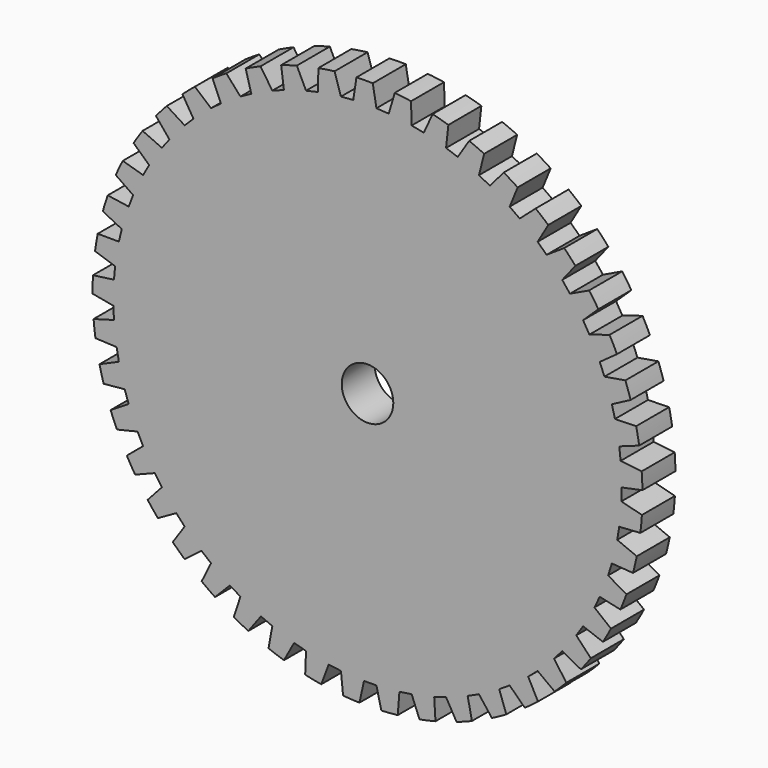
from build123d import *

# Parameters (mm, degrees)
F0_R     = 4.7625
F1_DEPTH = 7.62


with BuildPart() as f1:
    # F0 (on Front) → F1 (new body)
    with BuildSketch(Plane.XZ):
        with BuildLine():
            Line((46.963255, -0.001731), (50.793792, 0.794136))
            ThreePointArc((50.793792, 0.794136), (50.747573, 2.307341), (50.656284, 3.818497))
            Line((50.656284, 3.818497), (46.769329, 4.263473))
            Line((46.769329, 4.263473), (46.506453, 6.534308))
            Line((46.506453, 6.534308), (50.188948, 7.855538))
            ThreePointArc((50.188948, 7.855538), (49.932581, 9.347584), (49.631868, 10.831328))
            Line((49.631868, 10.831328), (45.720812, 10.731014))
            Line((45.720812, 10.731014), (45.144455, 12.943164))
            Line((45.144455, 12.943164), (48.607233, 14.76404))
            ThreePointArc((48.607233, 14.76404), (48.145709, 16.205886), (47.641425, 17.633339))
            Line((47.641425, 17.633339), (43.782392, 16.989687))
            Line((43.782392, 16.989687), (42.903772, 19.100096))
            Line((42.903772, 19.100096), (46.079434, 21.385176))
            ThreePointArc((46.079434, 21.385176), (45.421735, 22.748759), (44.723695, 24.092138))
            Line((44.723695, 24.092138), (40.991797, 22.917676))
            Line((40.991797, 22.917676), (39.828016, 24.885266))
            Line((39.828016, 24.885266), (42.654751, 27.590075))
            ThreePointArc((42.654751, 27.590075), (41.813678, 28.848853), (40.93547, 30.08201))
            Line((40.93547, 30.08201), (37.403344, 28.399598))
            Line((37.403344, 28.399598), (35.977053, 30.186073))
            Line((35.977053, 30.186073), (38.399841, 33.257964))
            ThreePointArc((38.399841, 33.257964), (37.391766, 34.387437), (36.350482, 35.48637))
            Line((36.350482, 35.48637), (33.086877, 33.328755))
            Line((33.086877, 33.328755), (31.425837, 34.899342))
            Line((31.425837, 34.899342), (33.397523, 38.278525))
            ThreePointArc((33.397523, 38.278525), (32.242065, 39.256709), (31.057973, 40.200029))
            Line((31.057973, 40.200029), (28.126412, 37.609205))
            Line((28.126412, 37.609205), (26.262954, 38.933335))
            Line((26.262954, 38.933335), (27.745159, 42.554038))
            ThreePointArc((27.745159, 42.554038), (26.46481, 43.361894), (25.160957, 44.131239))
            Line((25.160957, 44.131239), (22.618498, 41.157635))
            Line((22.618498, 41.157635), (20.588891, 42.209535))
            Line((20.588891, 42.209535), (21.552768, 46.001285))
            ThreePointArc((21.552768, 46.001285), (20.172447, 46.623088), (18.774211, 47.203485))
            Line((18.774211, 47.203485), (16.67034, 43.904978))
            Line((16.67034, 43.904978), (14.51409, 44.664175))
            Line((14.51409, 44.664175), (14.940876, 48.553169))
            ThreePointArc((14.940876, 48.553169), (13.48745, 48.976818), (12.022046, 49.356969))
            Line((12.022046, 49.356969), (10.397714, 45.797761))
            Line((10.397714, 45.797761), (8.156788, 46.249477))
            Line((8.156788, 46.249477), (8.038178, 50.160021))
            ThreePointArc((8.038178, 50.160021), (6.539936, 50.377269), (5.035886, 50.549776))
            Line((5.035886, 50.549776), (3.922708, 46.799142))
            Line((3.922708, 46.799142), (1.640724, 46.934586))
            Line((1.640724, 46.934586), (0.979025, 50.790565))
            ThreePointArc((0.979025, 50.790565), (-0.534871, 50.797184), (-2.048292, 50.758689))
            Line((-2.048292, 50.758689), (-2.62865, 46.889631))
            Line((-2.62865, 46.889631), (-4.907276, 46.706166))
            Line((-4.907276, 46.706166), (-6.099183, 50.432529))
            ThreePointArc((-6.099183, 50.432529), (-7.599267, 50.22839), (-9.092603, 49.979642))
            Line((-9.092603, 49.979642), (-9.128843, 46.067467))
            Line((-9.128843, 46.067467), (-11.35976, 45.568664))
            Line((-11.35976, 45.568664), (-13.058678, 49.092881))
            ThreePointArc((-13.058678, 49.092881), (-14.515753, 48.681957), (-15.959936, 48.227797))
            Line((-15.959936, 48.227797), (-15.451354, 44.348652))
            Line((-15.451354, 44.348652), (-17.59114, 43.54422))
            Line((-17.59114, 43.54422), (-19.764, 46.797696))
            ThreePointArc((-19.764, 46.797696), (-21.149705, 46.187985), (-22.516627, 45.537254))
            Line((-22.516627, 45.537254), (-21.473122, 41.766642))
            Line((-21.473122, 41.766642), (-23.480129, 40.672237))
            Line((-23.480129, 40.672237), (-26.084638, 43.591646))
            ThreePointArc((-26.084638, 43.591646), (-27.372003, 42.795017), (-28.635058, 41.96038))
            Line((-28.635058, 41.96038), (-27.07694, 38.37169))
            Line((-27.07694, 38.37169), (-28.912103, 37.008615))
            Line((-28.912103, 37.008615), (-31.897569, 39.537135))
            ThreePointArc((-31.897569, 39.537135), (-33.061536, 38.569092), (-34.196139, 37.566795))
            Line((-34.196139, 37.566795), (-32.153737, 34.229878))
            Line((-32.153737, 34.229878), (-33.781336, 32.624663))
            Line((-33.781336, 32.624663), (-37.08965, 34.713079))
            ThreePointArc((-37.08965, 34.713079), (-38.107563, 33.592464), (-39.091632, 32.442014))
            Line((-39.091632, 32.442014), (-36.604697, 29.42182))
            Line((-36.604697, 29.42182), (-37.993054, 27.605709))
            Line((-37.993054, 27.605709), (-41.559823, 29.213372))
            ThreePointArc((-41.559823, 29.213372), (-42.41187, 27.961997), (-43.226251, 26.685787))
            Line((-43.226251, 26.685787), (-40.343188, 24.0411))
            Line((-40.343188, 24.0411), (-41.46528, 22.049441))
            Line((-41.46528, 22.049441), (-45.221081, 23.14506))
            ThreePointArc((-45.221081, 23.14506), (-45.890679, 21.787281), (-46.51952, 20.410152))
            Line((-46.51952, 20.410152), (-43.296446, 18.192447))
            Line((-43.296446, 18.192447), (-44.130432, 16.064005))
            Line((-44.130432, 16.064005), (-48.002163, 16.626256))
            ThreePointArc((-48.002163, 16.626256), (-48.476277, 15.1885), (-48.907339, 13.737256))
            Line((-48.907339, 13.737256), (-45.406987, 11.989699))
            Line((-45.406987, 11.989699), (-45.936635, 9.765903))
            Line((-45.936635, 9.765903), (-49.848936, 9.783841))
            ThreePointArc((-49.848936, 9.783841), (-50.11834, 8.294093), (-50.343233, 6.79698))
            Line((-50.343233, 6.79698), (-46.633733, 5.553584))
            Line((-46.633733, 5.553584), (-46.848734, 3.277718))
            Line((-46.848734, 3.277718), (-50.725457, 2.750994))
            ThreePointArc((-50.725457, 2.750994), (-50.784907, 1.238251), (-50.799252, -0.275592))
            Line((-50.799252, -0.275592), (-46.952806, -0.990624))
            Line((-46.952806, -0.990624), (-46.848976, -3.274265))
            Line((-46.848976, -3.274265), (-50.614665, -4.335398))
            ThreePointArc((-50.614665, -4.335398), (-50.463003, -5.841693), (-50.266523, -7.342799))
            Line((-50.266523, -7.342799), (-46.357996, -7.515551))
            Line((-46.357996, -7.515551), (-45.937355, -9.762517))
            Line((-45.937355, -9.762517), (-49.518716, -11.337406))
            ThreePointArc((-49.518716, -11.337406), (-49.158894, -12.807934), (-48.755412, -14.267088))
            Line((-48.755412, -14.267088), (-44.860881, -13.894196))
            Line((-44.860881, -13.894196), (-44.131616, -16.060753))
            Line((-44.131616, -16.060753), (-47.458941, -18.118744))
            ThreePointArc((-47.458941, -18.118744), (-46.897963, -19.524884), (-46.295333, -20.913683))
            Line((-46.295333, -20.913683), (-42.4906, -20.002407))
            Line((-42.4906, -20.002407), (-41.466905, -22.046385))
            Line((-41.466905, -22.046385), (-44.475432, -24.547422))
            ThreePointArc((-44.475432, -24.547422), (-43.724216, -25.861804), (-42.934168, -27.153218))
            Line((-42.934168, -27.153218), (-39.293287, -25.721293))
            Line((-39.293287, -25.721293), (-37.995089, -27.602909))
            Line((-37.995089, -27.602909), (-40.62626, -30.498312))
            ThreePointArc((-40.62626, -30.498312), (-39.699428, -31.695354), (-38.737338, -32.864246))
            Line((-38.737338, -32.864246), (-35.331175, -30.939544))
            Line((-35.331175, -30.939544), (-33.783741, -32.622173))
            Line((-33.783741, -32.622173), (-35.986343, -35.855587))
            ThreePointArc((-35.986343, -35.855587), (-34.901935, -36.911989), (-33.78653, -37.935609))
            Line((-33.78653, -37.935609), (-30.681383, -35.555592))
            Line((-30.681383, -35.555592), (-28.914831, -37.006484))
            Line((-28.914831, -37.006484), (-30.645993, -40.514974))
            ThreePointArc((-30.645993, -40.514974), (-29.425116, -41.410175), (-28.178105, -42.268598))
            Line((-28.178105, -42.268598), (-25.434412, -39.47959))
            Line((-25.434412, -39.47959), (-23.483126, -40.670507))
            Line((-23.483126, -40.670507), (-24.709154, -44.385783))
            ThreePointArc((-24.709154, -44.385783), (-23.37557, -45.102358), (-22.021226, -45.778877))
            Line((-22.021226, -45.778877), (-19.692389, -42.635163))
            Line((-19.692389, -42.635163), (-17.59435, -43.542924))
            Line((-17.59435, -43.542924), (-18.291379, -47.392673))
            ThreePointArc((-18.291379, -47.392673), (-16.871046, -47.916676), (-15.435729, -48.398123))
            Line((-15.435729, -48.398123), (-13.567076, -44.960892))
            Line((-13.567076, -44.960892), (-11.363119, -45.567827))
            Line((-11.363119, -45.567827), (-11.517583, -49.477119))
            ThreePointArc((-11.517583, -49.477119), (-10.038146, -49.79835), (-8.549793, -50.075354))
            Line((-8.549793, -50.075354), (-7.177695, -46.411507))
            Line((-7.177695, -46.411507), (-4.910718, -46.705805))
            Line((-4.910718, -46.705805), (-4.519611, -50.598549))
            ThreePointArc((-4.519611, -50.598549), (-3.009864, -50.710755), (-1.497444, -50.777925))
            Line((-1.497444, -50.777925), (-0.648609, -46.958776))
            Line((-0.648609, -46.958776), (1.637264, -46.934707))
            Line((1.637264, -46.934707), (2.56633, -50.735135))
            ThreePointArc((2.56633, -50.735135), (4.077001, -50.636134), (5.58405, -50.492162))
            Line((5.58405, -50.492162), (5.893102, -46.592045))
            Line((5.893102, -46.592045), (8.153379, -46.250078))
            Line((8.153379, -46.250078), (9.602321, -49.88422))
            ThreePointArc((9.602321, -49.88422), (11.084511, -49.575938), (12.556857, -49.223626))
            Line((12.556857, -49.223626), (12.32011, -45.318453))
            Line((12.32011, -45.318453), (14.510798, -44.665245))
            Line((14.510798, -44.665245), (16.451414, -48.062366))
            ThreePointArc((16.451414, -48.062366), (17.876275, -47.550802), (19.285259, -46.997008))
            Line((19.285259, -46.997008), (18.507321, -43.162789))
            Line((18.507321, -43.162789), (20.58578, -42.211053))
            Line((20.58578, -42.211053), (22.980298, -45.305032))
            ThreePointArc((22.980298, -45.305032), (24.320097, -44.600145), (25.638296, -43.855647))
            Line((25.638296, -43.855647), (24.334308, -40.167011))
            Line((24.334308, -40.167011), (26.260084, -38.935271))
            Line((26.260084, -38.935271), (29.061897, -41.665887))
            ThreePointArc((29.061897, -41.665887), (30.290556, -40.781396), (31.492312, -39.860686))
            Line((31.492312, -39.860686), (29.687656, -36.389427))
            Line((29.687656, -36.389427), (31.423265, -34.901658))
            Line((31.423265, -34.901658), (34.577839, -37.215763))
            ThreePointArc((34.577839, -37.215763), (35.671443, -36.168884), (36.733366, -35.089882))
            Line((36.733366, -35.089882), (34.463167, -31.903565))
            Line((34.463167, -31.903565), (35.974828, -30.188724))
            Line((35.974828, -30.188724), (39.420763, -32.041277))
            ThreePointArc((39.420763, -32.041277), (40.358027, -30.852385), (41.259447, -29.636093))
            Line((41.259447, -29.636093), (38.567892, -26.796735))
            Line((38.567892, -26.796735), (39.826182, -24.888201))
            Line((39.826182, -24.888201), (43.496407, -26.243143))
            ThreePointArc((43.496407, -26.243143), (44.259087, -24.93538), (44.98246, -23.605471))
            Line((44.98246, -23.605471), (41.921937, -21.168338))
            Line((41.921937, -21.168338), (42.902364, -19.103258))
            Line((42.902364, -19.103258), (46.725443, -19.934217))
            ThreePointArc((46.725443, -19.934217), (47.298695, -18.533036), (47.829941, -17.115396))
            Line((47.829941, -17.115396), (44.460019, -15.127924))
            Line((44.460019, -15.127924), (45.143501, -12.946491))
            Line((45.143501, -12.946491), (49.045021, -13.237294))
            ThreePointArc((49.045021, -13.237294), (49.417688, -11.769968), (49.746466, -10.292189))
            Line((49.746466, -10.292189), (46.132737, -8.793061))
            Line((46.132737, -8.793061), (46.505971, -6.537736))
            Line((46.505971, -6.537736), (50.409993, -6.282722))
            ThreePointArc((50.409993, -6.282722), (50.574821, -4.777811), (50.694732, -3.268656))
            Line((50.694732, -3.268656), (46.907534, -2.287051))
            Line((46.907534, -2.287051), (46.963255, -0.001731))
        make_face()
        Circle(F0_R, mode=Mode.SUBTRACT)
    extrude(amount=F1_DEPTH)


solid = f1.part
